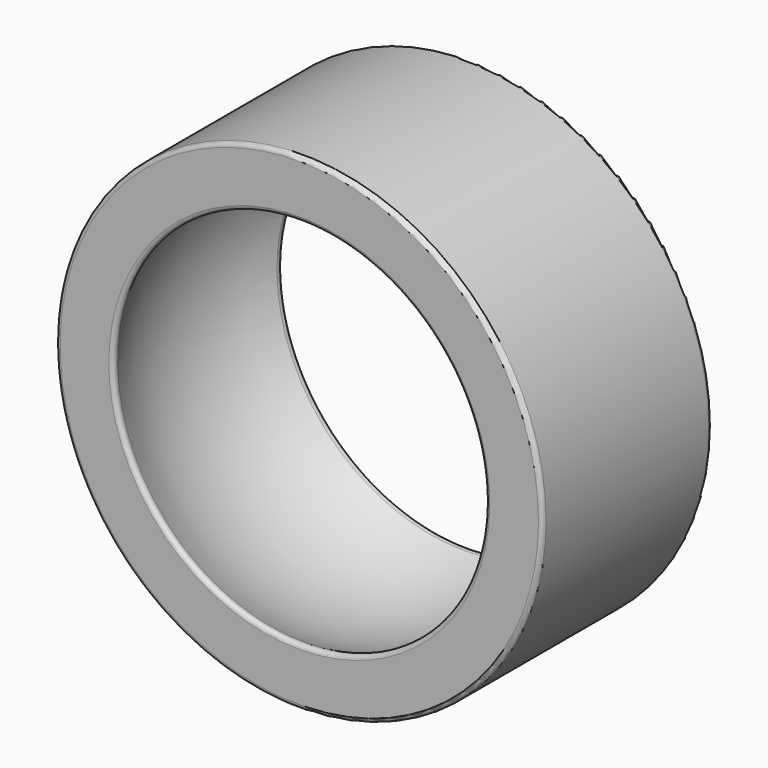
from build123d import *

# Parameters (mm, degrees)
F0_R          = 11.5
F1_DEPTH      = 5
F1_DEPTH_BACK = 5
F2_R          = 0.2
F5_R          = 0.2


with BuildPart() as f1:
    # F0 (on Front) → F1 (new body, two sides)
    with BuildSketch(Plane.XZ) as f1_sk:
        Circle(F0_R)
    extrude(amount=F1_DEPTH)
    extrude(f1_sk.sketch, amount=-F1_DEPTH_BACK)

    # F2
    f2_edges = [f1.edges().sort_by_distance(p)[0] for p in [
        (-11.5, -5, 0),
        (-11.5, 5, 0),
    ]]
    fillet(f2_edges, radius=F2_R)

    # F3 (on Front) → F4 (revolve, cut)
    with BuildSketch(Plane.XZ):
        with BuildLine():
            Line((0, -10), (0, 10))
            ThreePointArc((0, 10), (-10, 0), (0, -10))
        make_face()
    revolve(axis=Axis((0, 0, 0), (0, 0, 1)), mode=Mode.SUBTRACT)

    # F5
    f5_edges = [f1.edges().sort_by_distance(p)[0] for p in [
        (0, 5, 8.660254),
        (0, -5, 8.660254),
    ]]
    fillet(f5_edges, radius=F5_R)


solid = f1.part
